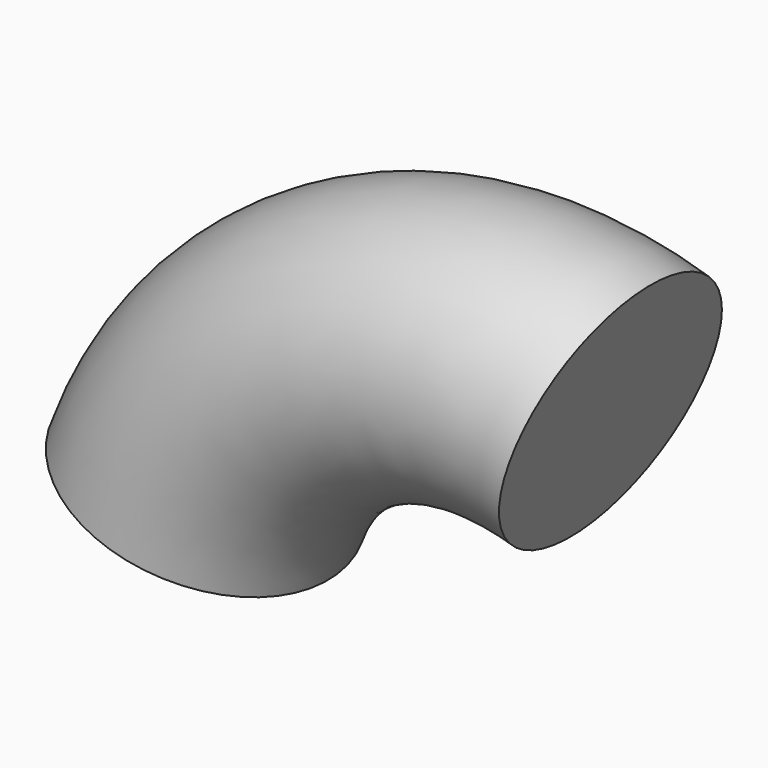
from build123d import *

# Parameters (mm, degrees)
F1_R = 25.4


with BuildPart() as f2:
    # F2: sweep along a path in F0
    with BuildLine(Plane.XZ) as f2_path:
        ThreePointArc((-59.449563, 22.315902), (-27.602577, 57.186954), (19.511279, 60.428139))
    # F1 (on Right) → F2 (sweep)
    with BuildSketch(Plane.YZ):
        with Locations((0, 63.5)):
            Circle(F1_R)
    sweep(path=f2_path.line)


solid = f2.part
